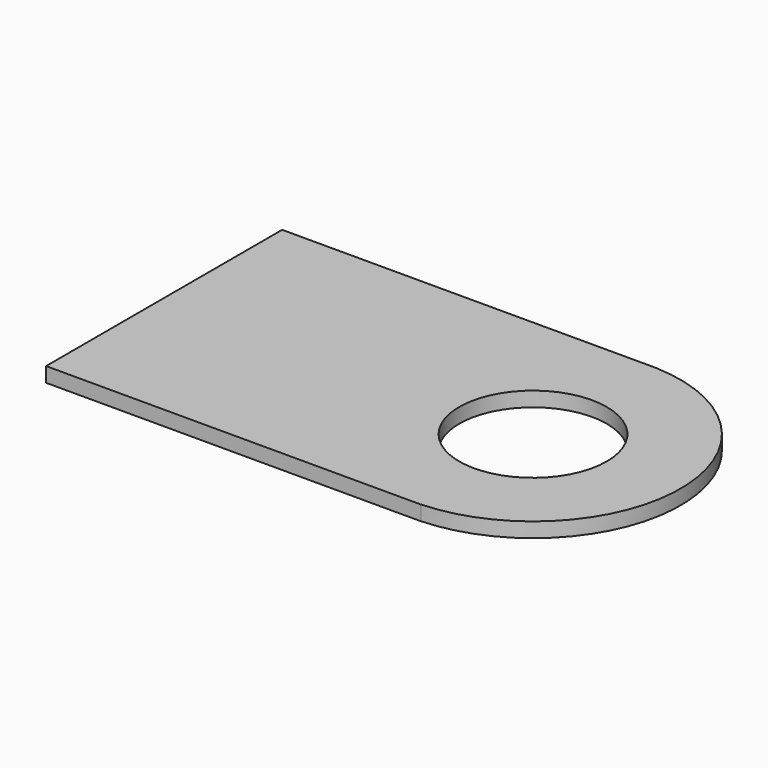
from build123d import *

# Parameters (mm, degrees)
CYLINDER059_R     = 0.5
CYLINDER059_DEPTH = 0.1
BOX022_W          = 2.54
BOX022_H          = 2
BOX022_DEPTH      = 0.1
CYLINDER058_R     = 0.5
CYLINDER058_DEPTH = 0.1
CYLINDER057_R     = 1
CYLINDER057_DEPTH = 0.1


with BuildPart() as cylinder059:
    # Cylinder059 → Cylinder059 (new body)
    with BuildSketch(Plane.XY.offset(1)):
        Circle(CYLINDER059_R)
    extrude(amount=CYLINDER059_DEPTH)


with BuildPart() as cut040:
    # Box022 → Box022 (new body)
    with BuildSketch(Plane(origin=(-2.5, -1, 1), x_dir=(1, 0, 0), z_dir=(0, 0, 1))):
        with Locations((1.27, 1)):
            Rectangle(BOX022_W, BOX022_H)
    extrude(amount=BOX022_DEPTH)

    # Cut040: cut Cylinder059
    add(cylinder059.part, mode=Mode.SUBTRACT)


with BuildPart() as cylinder058:
    # Cylinder058 → Cylinder058 (new body)
    with BuildSketch(Plane.XY.offset(1)):
        Circle(CYLINDER058_R)
    extrude(amount=CYLINDER058_DEPTH)


with BuildPart() as fusion019:
    # Cylinder057 → Cylinder057 (new body)
    with BuildSketch(Plane.XY.offset(1)):
        Circle(CYLINDER057_R)
    extrude(amount=CYLINDER057_DEPTH)

    # Cut039: cut Cylinder058
    add(cylinder058.part, mode=Mode.SUBTRACT)

    # Fusion019: union Cut040
    add(cut040.part)


with BuildPart() as fusion019_1:
    # Fusion019 placement: moved
    add(fusion019.part.moved(Location((0, -48.26, 5.5))))


solid = fusion019_1.part
